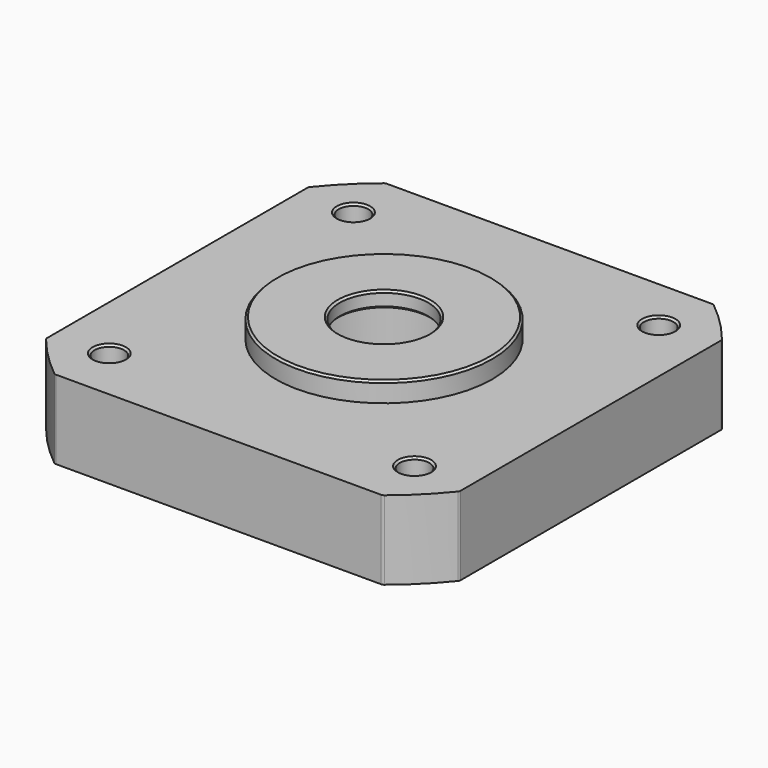
from build123d import *

# Parameters (mm, degrees)
SKETCH015_R     = 4.5
SKETCH015_R_2   = 1.5
PAD008_DEPTH    = 8
SKETCH016_R     = 11
SKETCH016_R_2   = 4.5
PAD009_DEPTH    = 2
SKETCH017_R     = 8
POCKET004_DEPTH = 8.4
CHAMFER003_SIZE = 0.2
FILLET002_R     = 0.4


with BuildPart() as part:
    # Sketch015 → Pad008 (new body)
    with BuildSketch(Plane.XY):
        with BuildLine():
            ThreePointArc((-16.650526, 21), (-18.950462, 18.950462), (-21, 16.650526))
            Line((-21, 16.650526), (-21, -16.650526))
            ThreePointArc((-21, -16.650526), (-18.950462, -18.950462), (-16.650526, -21))
            Line((-16.650526, -21), (16.650526, -21))
            ThreePointArc((16.650526, -21), (18.950462, -18.950462), (21, -16.650526))
            Line((21, 16.650526), (21, -16.650526))
            ThreePointArc((21, 16.650526), (18.950462, 18.950462), (16.650526, 21))
            Line((-16.650526, 21), (16.650526, 21))
        make_face()
        Circle(SKETCH015_R, mode=Mode.SUBTRACT)
        with Locations((-15.5, 15.5)):
            Circle(SKETCH015_R_2, mode=Mode.SUBTRACT)
        with Locations((15.5, 15.5)):
            Circle(SKETCH015_R_2, mode=Mode.SUBTRACT)
        with Locations((15.5, -15.5)):
            Circle(SKETCH015_R_2, mode=Mode.SUBTRACT)
        with Locations((-15.5, -15.5)):
            Circle(SKETCH015_R_2, mode=Mode.SUBTRACT)
    extrude(amount=PAD008_DEPTH)

    # Sketch016 (on Face15 of Pad008) → Pad009 (join)
    with BuildSketch(Plane.XY.offset(8)):
        Circle(SKETCH016_R)
        Circle(SKETCH016_R_2, mode=Mode.SUBTRACT)
    extrude(amount=PAD009_DEPTH)

    # Sketch017 → Pocket004 (cut)
    with BuildSketch(Plane.XY):
        Circle(SKETCH017_R)
    extrude(amount=POCKET004_DEPTH, mode=Mode.SUBTRACT)

    # Chamfer003
    chamfer003_edges = [part.edges().sort_by_distance(p)[0] for p in [
        (-11, 0, 10),
        (14, 15.5, 8),
        (-17, 15.5, 8),
        (-17, -15.5, 8),
        (14, -15.5, 8),
        (-4.5, 0, 10),
        (-4.5, 0, 8.4),
    ]]
    chamfer(chamfer003_edges, length=CHAMFER003_SIZE)

    # Fillet002
    fillet002_edges = [part.edges().sort_by_distance(p)[0] for p in [
        (16.650526, 21, 4),
        (21, 16.650526, 4),
        (21, -16.650526, 4),
        (16.650526, -21, 4),
        (-21, -16.650526, 4),
        (-16.650526, -21, 4),
        (-21, 16.650526, 4),
        (-16.650526, 21, 4),
    ]]
    fillet(fillet002_edges, radius=FILLET002_R)


with BuildPart() as part_1:
    # Body005 placement: moved
    add(part.part.moved(Location((0, 0, 39.4))))


solid = part_1.part
